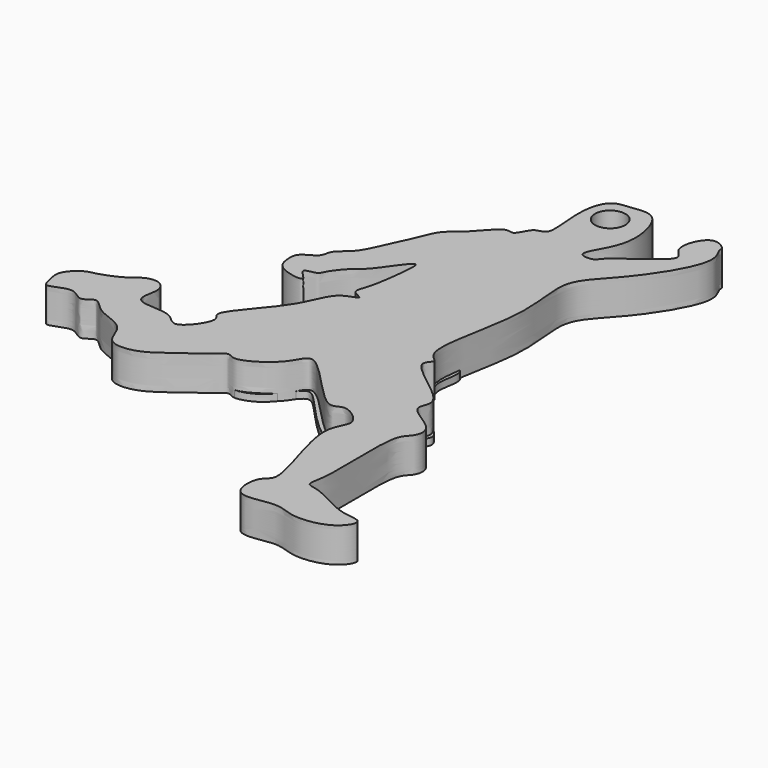
from build123d import *

# Parameters (mm, degrees)
F0_R     = 2.1900662225
F1_DEPTH = 5
F3_DEPTH = 1


with BuildPart() as f1:
    # F0 (on Top) → F1 (new body)
    with BuildSketch(Plane.XY):
        with BuildLine():
            add(Edge.make_bspline(
                [(-10.5620678514, 44.5850118995), (-11.4914220688, 43.6624565502), (-13.2530179414, 42.6936230224), (-14.4278267521, 39.0326833618), (-15.8475902939, 36.4622942718), (-17.27248766, 32.6027272115), (-19.8648233743, 31.2017649263), (-19.6875680145, 29.1740919055), (-22.3518483536, 28.3920261941), (-22.4134058705, 26.374702937), (-21.934888951, 24.0439655614), (-16.4856375259, 23.1394390749), (-20.2533932658, 25.6632226435), (-17.3390983926, 25.7294941948), (-17.2668430814, 26.6883056457), (-14.9693236125, 29.6048765454), (-13.6017209113, 30.0188424195), (-9.8696684579, 36.1884972815), (-10.1919156632, 31.7308085548), (-10.8468734081, 26.8292715594), (-11.8962595413, 24.8671121651), (-9.2368817262, 24.1146683084), (-13.1819219913, 23.5271563895), (-14.0096370914, 18.0947043846), (-21.4436600557, 11.1179913375), (-18.5948286696, 10.0485540866), (-22.2701964663, 4.8744856299), (-23.9843936897, 8.0683302175), (-27.9158922864, 7.6393529658), (-29.7491397375, 8.7081448048), (-28.614583586, 11.5540534853), (-30.0414232806, 13.3463276661), (-32.2354299764, 12.9248731848), (-33.2395620775, 11.760799314), (-36.5905028112, 10.1777539294), (-38.4144043123, 10.128535256), (-40.7929633207, 7.8442196912), (-40.0568827639, 5.8446601365), (-39.8225188866, 3.8410098533), (-36.3771789841, 6.2598748049), (-34.5683632231, 3.6175075415), (-32.8525620354, 5.9458713057), (-31.1117442344, 3.0306467047), (-26.3375903532, 2.3460922778), (-25.9759509332, -2.0878903194), (-21.8167212485, -2.0416902278), (-18.8318771611, -0.0988452644), (-14.6355801377, 3.0725288054), (-13.0032976083, 4.5855918541), (-11.808492298, 3.1007290564), (-6.2840198233, 6.4602071935), (-5.242582058, 11.6495810139), (3.3901751596, -0.0730282004), (5.119908024, 3.0329463064), (9.4641755898, -0.2391858722), (5.3061428275, -3.08396548), (11.3135273486, -16.3801266989), (8.1969585719, -16.9349395179), (8.1186845159, -22.7950314517), (14.2800335074, -20.5320767315), (17.0422995476, -22.478436427), (22.6787820372, -21.6309044784), (24.7110675829, -17.9816734405), (20.5972395064, -18.3578882518), (15.9698406651, -15.1455961165), (13.3774334473, -15.1480262631), (14.6862447979, -12.077678827), (13.5719063565, 0.379947764), (15.7700403789, 1.4866186092), (16.4864706373, 4.5283587551), (10.4315173385, 6.8814096388), (14.08324311, 10.0392174859), (3.7075342521, 15.6098252076), (6.8009709908, 17.4127963314), (3.2027717447, 18.702503672), (7.6635789704, 32.6238067105), (4.6885582386, 41.7454094895), (10.1695798676, 46.2825342222), (16.4308488615, 55.9183727497), (14.0800256128, 58.5452998045), (14.5632043692, 59.0241609708), (11.7018041601, 61.2763251162), (9.4997019836, 55.5525038127), (13.6755224178, 54.1736693073), (5.1497708667, 49.2594696251), (5.0094969304, 47.773180242), (1.7923730033, 47.7253219009), (4.7589253842, 51.7866197988), (5.3744510546, 55.9329064672), (3.6329181509, 61.134080718), (0.0031071161, 60.3724290293), (-2.6957319751, 60.3757045653), (-4.0575103956, 56.658011826), (-3.3359719275, 51.7418353491), (-3.5308358011, 49.5285883158), (-5.4260333472, 49.6949021238), (-6.2336388636, 46.8260070558), (-7.8346941954, 48.0175876324), (-9.5273268195, 45.612183086), (-10.5620678514, 44.5850118995)],
                knots=[0, 0, 0, 0, 0.010405391, 0.0211283887, 0.0311932971, 0.0426562815, 0.0519594284, 0.0591905076, 0.0678335949, 0.0753451019, 0.084101938, 0.09438036, 0.1022033448, 0.1094344225, 0.1149661043, 0.1254045842, 0.1334702835, 0.1463291601, 0.1549136442, 0.1685565803, 0.1760009132, 0.1826440478, 0.1909158463, 0.2047748322, 0.2216651305, 0.2284921216, 0.2405102305, 0.2492670684, 0.26039215, 0.2676478681, 0.2769159285, 0.2847389118, 0.2925813812, 0.2998370924, 0.3105600902, 0.3185534418, 0.3280917291, 0.3363134425, 0.3427207476, 0.3527672433, 0.3613664974, 0.3687650178, 0.3778885966, 0.3899335864, 0.4005329527, 0.4107679858, 0.4219285965, 0.4352278271, 0.4428261854, 0.4490475768, 0.463021208, 0.4727784319, 0.4917475536, 0.4996476186, 0.5104027425, 0.521232352, 0.5415523164, 0.5496884658, 0.5607793896, 0.5733935717, 0.5840164448, 0.5972545525, 0.6064752065, 0.6162223346, 0.6301684327, 0.637788048, 0.64705611, 0.6670821102, 0.6753745107, 0.6839441588, 0.6966185545, 0.7055512912, 0.7228320263, 0.7296590182, 0.7374819993, 0.7585226933, 0.7758414065, 0.7906442229, 0.8094366735, 0.8182350576, 0.8217335975, 0.830332842, 0.8421575412, 0.850605601, 0.8666128938, 0.8738190745, 0.8812634103, 0.8921351682, 0.9045827989, 0.916743981, 0.926802, 0.935671676, 0.9462788895, 0.9593734182, 0.9668849246, 0.973711915, 0.9823550018, 0.9884146595, 1, 1, 1, 1], degree=3))
        make_face()
        with Locations((0, 56.7360669374)):
            Circle(F0_R, mode=Mode.SUBTRACT)
    extrude(amount=F1_DEPTH)

    # F2 (on Top) → F3 (join)
    with BuildSketch(Plane.XY):
        with BuildLine():
            add(Edge.make_bspline(
                [(-10.2235004306, 24.091899395), (-11.366209324, 24.0194917445), (-12.7273465537, 23.5159109608), (-14.3569098309, 17.7280295794), (-20.5023929742, 11.8160231015), (-20.0407155735, 9.8858080188), (-12.5152243336, 4.0016064437), (-11.5557406215, 3.6760432783), (-8.0125908302, 4.7468513714), (-5.5848114719, 9.5411012993), (-3.2898142321, 7.5584978154), (2.8550905301, 0.381873611), (5.2347515753, 2.2530006669), (11.9257120821, 7.092913447), (13.740429621, 9.8077407691), (3.3811422511, 15.2512982168), (5.8765682021, 16.5684133648), (6.1374919552, 17.2438111546), (4.3874096662, 19.2125437026), (6.223086462, 23.9013668789), (1.3264684225, 23.532039088), (-7.6287349359, 24.2563164867), (-10.2235004306, 24.091899395)],
                knots=[0, 0, 0, 0, 0.0377532803, 0.0975837484, 0.1682966908, 0.2000901489, 0.2754917887, 0.3018246431, 0.3472111496, 0.4000814053, 0.4371458961, 0.5108282016, 0.5494449715, 0.6212378172, 0.6580639383, 0.7344823356, 0.7626002919, 0.7812204379, 0.8189737237, 0.8669844954, 0.9142730842, 1, 1, 1, 1], degree=3))
        make_face()
    extrude(amount=F3_DEPTH)


solid = f1.part
